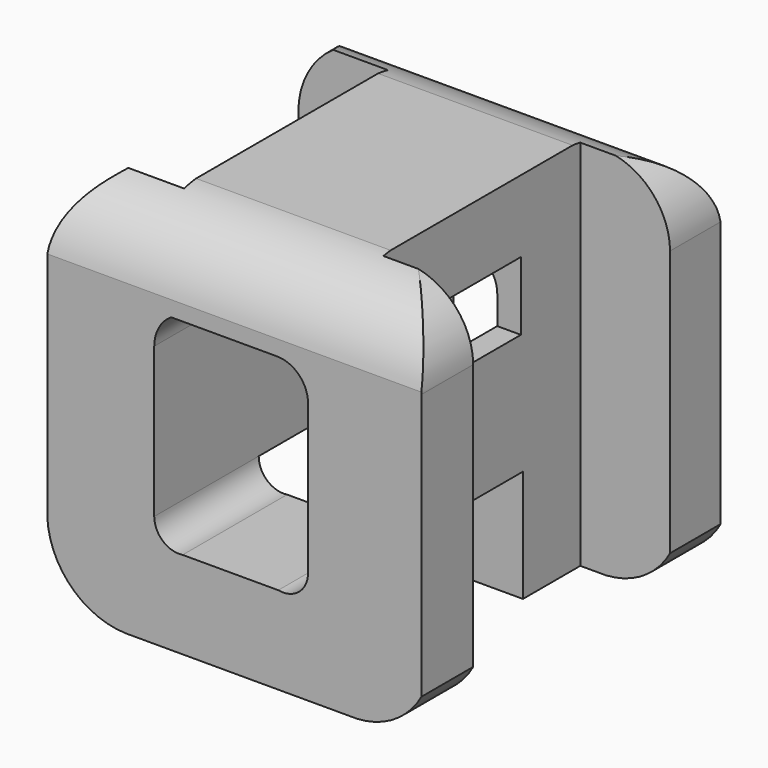
from build123d import *

# Parameters (mm, degrees)
F3_DEPTH = 25
F2_W     = 14.679278
F2_H     = 9.152961
F4_DEPTH = 25
F5_DEPTH = 25


with BuildPart() as f3:
    # F1 (on Front) → F3 (new body, symmetric)
    with BuildSketch(Plane.XZ):
        with BuildLine():
            Line((15.849059, 25), (-19.900017, 25))
            ThreePointArc((-19.900017, 25), (-23.663126, 21.043852), (-25, 15.75))
            Line((-25, 15.75), (-25, -13.906561))
            Line((-25, -13.906561), (-25, -14.566518))
            ThreePointArc((-25, -14.566518), (-21.671652, -22.024724), (-14.065702, -25))
            Line((-14.065702, -25), (15.273589, -25))
            ThreePointArc((15.273589, -25), (20.913091, -23.706775), (25, -19.611218))
            Line((25, -19.611218), (25, -9.521818))
            Line((25, -9.521818), (25, 15.948113))
            ThreePointArc((25, 15.948113), (22.284826, 22.35471), (15.849059, 25))
        make_face()
        with BuildLine():
            Line((-10.707237, -10.016448), (-10.707237, 0))
            Line((-10.707237, 0), (-10.707237, 10.016448))
            ThreePointArc((-10.707237, 10.016448), (-10.10992, 12.373308), (-8.462171, 14.161184))
            Line((-8.462171, 14.161184), (4.317435, 14.161184))
            Line((4.317435, 14.161184), (5.699014, 14.161184))
            ThreePointArc((5.699014, 14.161184), (8.629785, 12.947219), (9.843749, 10.016448))
            Line((9.843749, 10.016448), (9.843749, 0))
            Line((9.843749, 0), (9.843749, -10.016448))
            ThreePointArc((9.843749, -10.016448), (8.630455, -12.592476), (5.871711, -13.297698))
            Line((5.871711, -13.297698), (-6.907895, -13.297698))
            ThreePointArc((-6.907895, -13.297698), (-9.558442, -12.526508), (-10.707237, -10.016448))
        make_face(mode=Mode.SUBTRACT)
    extrude(amount=F3_DEPTH, both=True)

    # F2 (on Right) → F4 (intersect, symmetric)
    with BuildSketch(Plane.YZ):
        with BuildLine():
            Line((-25, -25), (-7.54655, -25))
            Line((-7.54655, -25), (-7.54655, -10.016448))
            Line((-7.54655, -10.016448), (6.960031, -10.016448))
            Line((6.960031, -10.016448), (6.960031, -25))
            Line((6.960031, -25), (25, -25))
            Line((25, -25), (25, 15.715461))
            ThreePointArc((25, 15.715461), (21.733554, 22.047274), (15.249502, 25))
            Line((15.249502, 25), (-15.145234, 25))
            ThreePointArc((-15.145234, 25), (-21.510489, 22.233155), (-25, 16.233554))
            Line((-25, 16.233554), (-25, -25))
        make_face()
        with Locations((-0.725002, 10.793585)):
            Rectangle(F2_W, F2_H, mode=Mode.SUBTRACT)
    extrude(amount=F4_DEPTH, both=True, mode=Mode.INTERSECT)

    # F0 (on Top) → F5 (intersect, symmetric)
    with BuildSketch(Plane.XY):
        Polygon((25, 25), (-25, 25), (-25, 16.938681), (-13, 16.938681), (-13, -17.136794), (-25, -17.136794), (-25, -25), (25, -25), (25, -16.344341), (13, -16.344341), (13, 16.542453), (25, 16.542453), align=None)
    extrude(amount=F5_DEPTH, both=True, mode=Mode.INTERSECT)


solid = f3.part
